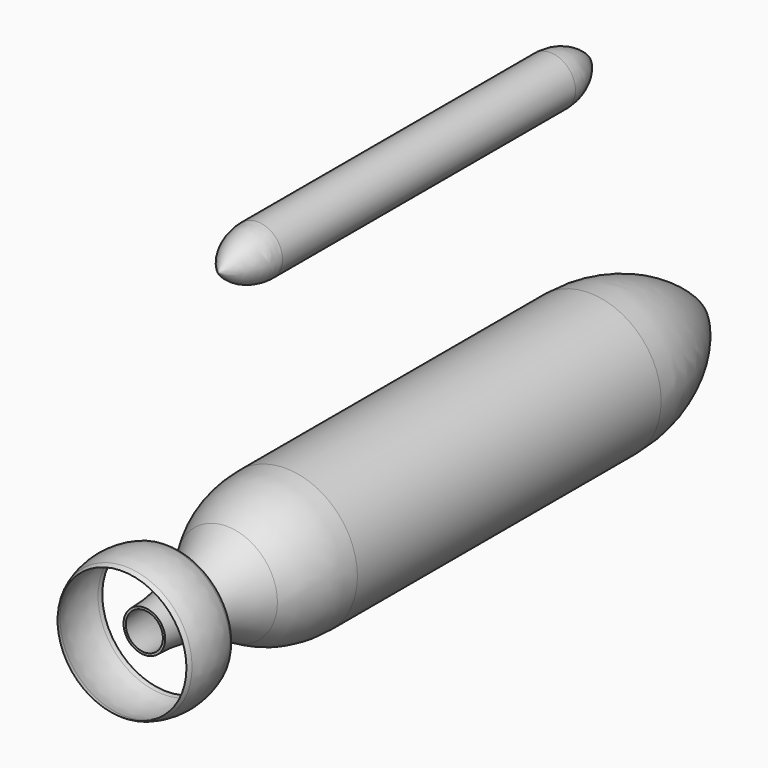
from build123d import *


with BuildPart() as motor:
    # Sketch → Revolution (revolve)
    with BuildSketch(Plane.XY):
        Polygon((0, 0), (103, 0), (103, -115), (82.5, -115), (82.5, -125), (57, -125), (57, -128), (11.1, -128), (11.1, -179), (0, -179), align=None)
    revolve(axis=Axis((0, 0, 0), (0, 1, 0)))


with BuildPart() as motor_1:
    # Body placement: moved
    add(motor.part.moved(Location((0, 350, 0))))


with BuildPart() as hull:
    # Sketch001 → Revolution001 (revolve)
    with BuildSketch(Plane.XY):
        with BuildLine():
            Line((150, 1200), (155, 1200))
            Line((155, 1200), (155, 380.769231))
            ThreePointArc((109.229717, 222.333637), (143.32816, 298.312036), (155, 380.769231))
            ThreePointArc((109.229717, 222.333637), (61.379164, 115.712686), (45, 0))
            Line((45, 0), (40, 0))
            ThreePointArc((105, 225), (56.575593, 117.100384), (40, 0))
            ThreePointArc((105, 225), (138.52459, 299.699734), (150, 380.769231))
            Line((150, 380.769231), (150, 1200))
        make_face()
    revolve(axis=Axis((0, 0, 0), (0, 1, 0)))


with BuildPart() as protector:
    # Sketch003 → Revolution002 (revolve)
    with BuildSketch(Plane.XY):
        with BuildLine():
            ThreePointArc((140.953893, -51.303021), (150, 0), (140.953893, 51.303021))
            ThreePointArc((139.048897, 60.303021), (139.684798, 55.736009), (140.953893, 51.303021))
            ThreePointArc((143.953893, 51.303021), (141.854567, 55.9955), (139.048897, 60.303021))
            ThreePointArc((143.953893, -51.303021), (152.822522, 0), (143.953893, 51.303021))
            ThreePointArc((139.048897, -60.303021), (141.854567, -55.9955), (143.953893, -51.303021))
            ThreePointArc((140.953893, -51.303021), (139.684798, -55.736009), (139.048897, -60.303021))
        make_face()
    revolve(axis=Axis((0, 0, 0), (0, 1, 0)))


with BuildPart() as nose_pointy:
    # Sketch004 → Revolution003 (revolve)
    with BuildSketch(Plane.XY):
        with BuildLine():
            ThreePointArc((150, 0), (110.410197, 167.705098), (0, 300))
            Line((0, 300), (0, 306.22704))
            ThreePointArc((155, 0), (114.04277, 171.610023), (0, 306.22704))
            Line((155, 0), (150, 0))
        make_face()
    revolve(axis=Axis((0, 0, 0), (0, 1, 0)))


with BuildPart() as nose_pointy_1:
    # Body003 placement: moved
    add(nose_pointy.part.moved(Location((0, 1200, 0))))


with BuildPart() as floater:
    # Sketch005 → Revolution004 (revolve)
    with BuildSketch(Plane.XY):
        with BuildLine():
            ThreePointArc((0, 0), (39.708326, 45.940187), (54, 104.957134))
            Line((54, 104.957134), (54, 895.042866))
            ThreePointArc((54, 895.042866), (39.708326, 954.059813), (0, 1000))
            Line((0, 1000), (0, 995.042866))
            ThreePointArc((50, 895.042866), (36.803399, 950.944565), (0, 995.042866))
            Line((50, 104.957092), (50, 895.042866))
            ThreePointArc((0, 4.957134), (36.803389, 49.055416), (50, 104.957092))
            Line((0, 0), (0, 4.957134))
        make_face()
    revolve(axis=Axis((0, 0, 0), (0, 1, 0)))


with BuildPart() as floater_1:
    # Body004 placement: moved
    add(floater.part.moved(Location((0, 200, 600))))


solid = Compound([motor_1.part, hull.part, protector.part, nose_pointy_1.part, floater_1.part])
